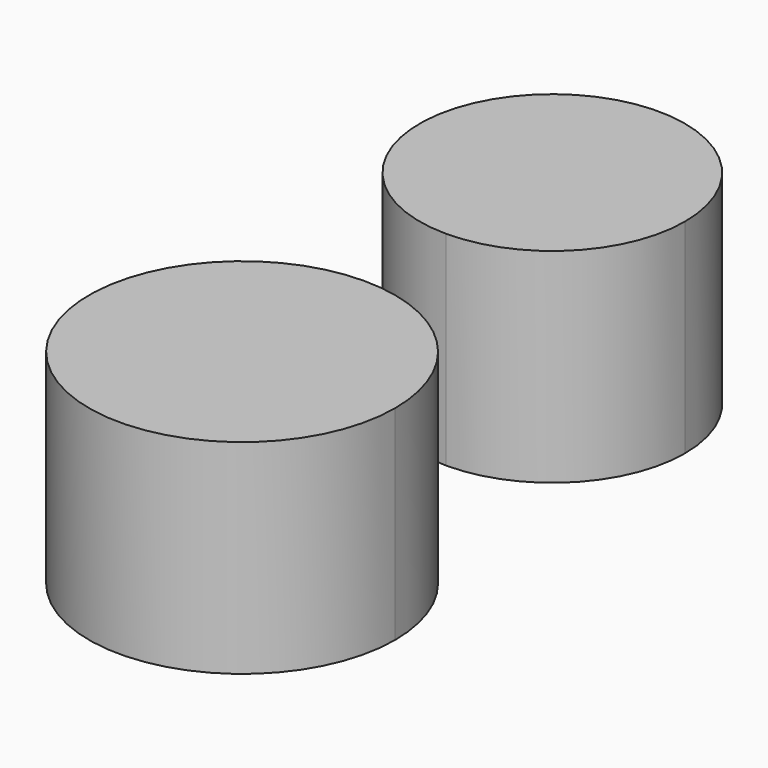
from build123d import *

# Parameters (mm, degrees)
F1_DEPTH = 25.4


with BuildPart() as f1:
    # F0 (on Top) → F1 (new body)
    with BuildSketch(Plane.XY):
        with BuildLine():
            ThreePointArc((0, 19.05), (-13.470384, -13.470384), (19.05, 0))
            ThreePointArc((19.05, 0), (13.470384, 13.470384), (0, 19.05))
        make_face()
        with BuildLine():
            ThreePointArc((16.51, 48.267299), (-11.674333, 59.941632), (0, 31.757299))
            ThreePointArc((0, 31.757299), (11.674333, 36.592966), (16.51, 48.267299))
        make_face()
    extrude(amount=F1_DEPTH)


solid = f1.part
